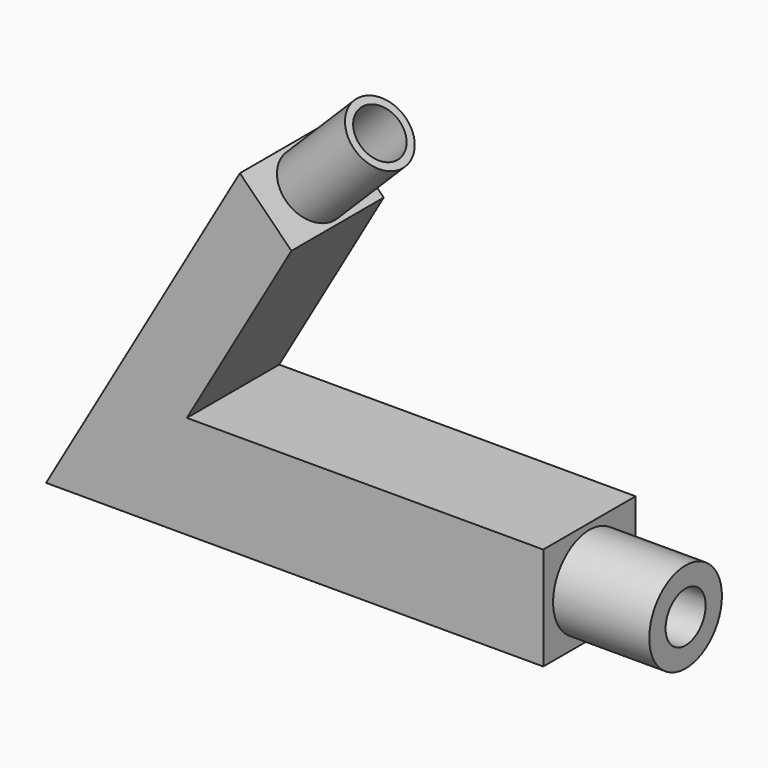
from build123d import *

# Parameters (mm, degrees)
F1_DEPTH = 30
F2_R     = 8.4944799553
F2_R_2   = 6.50875
F3_DEPTH = 25
F4_R     = 11.8009083685
F4_R_2   = 6.50875
F5_DEPTH = 25


with BuildPart() as f1:
    # F0 (on Front) → F1 (new body)
    with BuildSketch(Plane.XZ):
        Polygon((-2.3517715285, 45.0519641835), (-15.7493199024, 58.4674571651), (-66.1214962602, -28.7797115743), (63.1061792374, -28.7797115743), (63.1061792374, -2.0140784685), (-29.5253639234, -2.0140784685), align=None)
    extrude(amount=F1_DEPTH)

    # F2 (on face) → F3 (join)
    with BuildSketch(Plane(origin=(21.3485022284, 0, 21.3199464014), x_dir=(0, 1, 0), z_dir=(0.7075798534, 0, 0.7066333923))):
        with Locations((-15, 43.0195463119)):
            Circle(F2_R)
        with Locations((-15, 43.0195463119)):
            Circle(F2_R_2, mode=Mode.SUBTRACT)
    extrude(amount=F3_DEPTH)

    # F4 (on face) → F5 (join)
    with BuildSketch(Plane.YZ.offset(63.1061792374)):
        with Locations((-15, -15.3968950214)):
            Circle(F4_R)
        with Locations((-15, -15.3968950214)):
            Circle(F4_R_2, mode=Mode.SUBTRACT)
    extrude(amount=F5_DEPTH)


solid = f1.part
